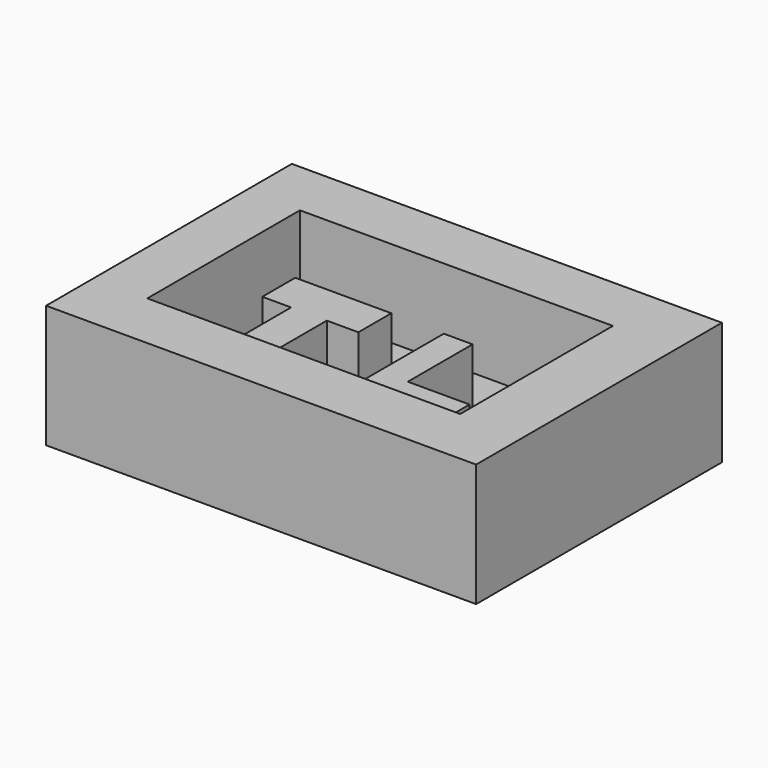
from build123d import *

# Parameters (mm, degrees)
F0_W     = 88.9
F0_H     = 63.5
F0_W_2   = 64.688936
F0_H_2   = 39.437553
F1_DEPTH = 25.4
F2_W     = 64.972658
F2_H     = 38.870107
F3_DEPTH = 7.62
F5_DEPTH = 19.05
F7_DEPTH = 19.05


with BuildPart() as f1:
    # F0 (on Top) → F1 (new body)
    with BuildSketch(Plane.XY):
        with Locations((-7.991541, 0.256701)):
            Rectangle(F0_W, F0_H)
        with Locations((-8.937288, 0.425585)):
            Rectangle(F0_W_2, F0_H_2, mode=Mode.SUBTRACT)
    extrude(amount=F1_DEPTH)

    # F2 (on Top) → F3 (join)
    with BuildSketch(Plane.XY):
        with Locations((-9.079149, 0.425584)):
            Rectangle(F2_W, F2_H)
    extrude(amount=F3_DEPTH)

    # F4 (on Top) → F5 (join)
    with BuildSketch(Plane.XY):
        Polygon((-14.895479, 10.781489), (-34.756117, 10.781489), (-34.756117, 2.269787), (-28.797926, 2.269787), (-28.797926, -13.902447), (-21.421118, -13.902447), (-21.421118, 2.269787), (-14.895479, 2.269787), align=None)
    extrude(amount=F5_DEPTH)

    # F6 (on Top) → F7 (join)
    with BuildSketch(Plane.XY):
        Polygon((2.127926, 10.497767), (-3.830266, 10.497767), (-3.830266, -13.335001), (14.895479, -13.335001), (14.895479, -6.241915), (2.127926, -6.241915), align=None)
    extrude(amount=F7_DEPTH)


solid = f1.part
